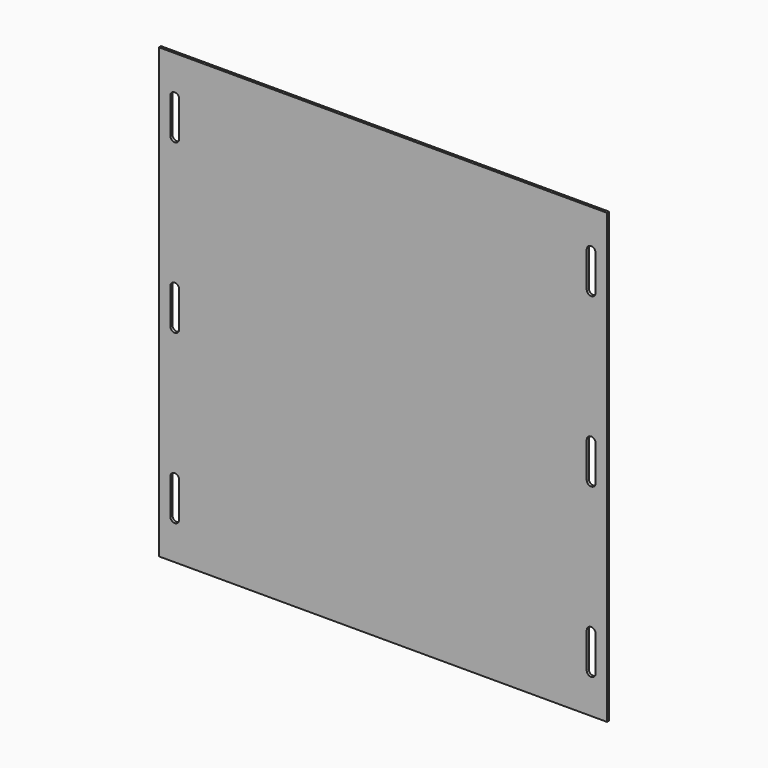
from build123d import *

# Parameters (mm, degrees)
F0_W     = 508
F0_H     = 508
F1_DEPTH = 3


with BuildPart() as f1:
    # F0 (on Front) → F1 (new body)
    with BuildSketch(Plane.XZ):
        with Locations((254, 254)):
            Rectangle(F0_W, F0_H)
        with BuildLine():
            ThreePointArc((13, 84), (18, 89), (23, 84))
            Line((23, 84), (23, 44))
            ThreePointArc((23, 44), (18, 39), (13, 44))
            Line((13, 44), (13, 84))
        make_face(mode=Mode.SUBTRACT)
        with BuildLine():
            ThreePointArc((495, 44), (490, 39), (485, 44))
            Line((485, 44), (485, 84))
            ThreePointArc((485, 84), (490, 89), (495, 84))
            Line((495, 84), (495, 44))
        make_face(mode=Mode.SUBTRACT)
        with BuildLine():
            ThreePointArc((13, 274), (18, 279), (23, 274))
            Line((23, 274), (23, 234))
            ThreePointArc((23, 234), (18, 229), (13, 234))
            Line((13, 234), (13, 274))
        make_face(mode=Mode.SUBTRACT)
        with BuildLine():
            ThreePointArc((13, 464), (18, 469), (23, 464))
            Line((23, 464), (23, 424))
            ThreePointArc((23, 424), (18, 419), (13, 424))
            Line((13, 424), (13, 464))
        make_face(mode=Mode.SUBTRACT)
        with BuildLine():
            ThreePointArc((485, 274), (490, 279), (495, 274))
            Line((495, 274), (495, 234))
            ThreePointArc((495, 234), (490, 229), (485, 234))
            Line((485, 234), (485, 274))
        make_face(mode=Mode.SUBTRACT)
        with BuildLine():
            ThreePointArc((485, 464), (490, 469), (495, 464))
            Line((495, 464), (495, 424))
            ThreePointArc((495, 424), (490, 419), (485, 424))
            Line((485, 424), (485, 464))
        make_face(mode=Mode.SUBTRACT)
    extrude(amount=F1_DEPTH)


solid = f1.part
